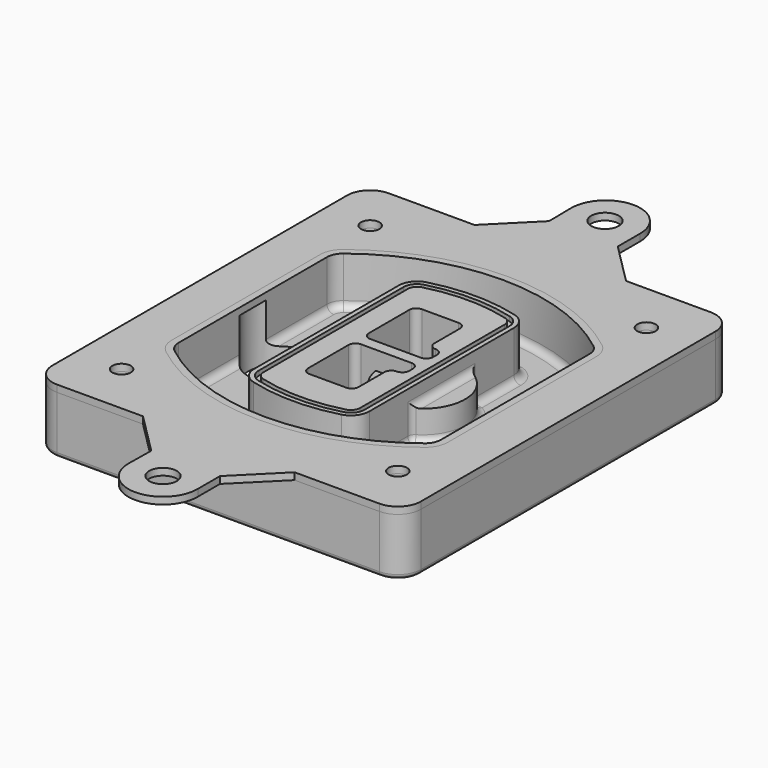
from build123d import *

# Parameters (mm, degrees)
F0_R      = 4
F1_DEPTH  = 25
F2_DEPTH  = 3
F3_DEPTH  = 18
F5_DEPTH  = 21
F6_DEPTH  = 2
F8_DEPTH  = 20
F9_DEPTH  = 16
F10_DEPTH = 25
F7_R      = 6
F7_R_2    = 4
F11_DEPTH = 6
F13_DEPTH = 9
F14_R     = 3
F15_R     = 2
F16_R     = 6
F16_R_2   = 4
F17_DEPTH = 3


with BuildPart() as f1:
    # F0 (on Top) → F1 (new body)
    with BuildSketch(Plane.XY):
        with BuildLine():
            ThreePointArc((-80, -80), (-77.0710678119, -87.0710678119), (-70, -90))
            Line((-70, -90), (70, -90))
            ThreePointArc((70, -90), (77.0710678119, -87.0710678119), (80, -80))
            Line((80, -80), (80, 80))
            ThreePointArc((80, 80), (77.0710678119, 87.0710678119), (70, 90))
            Line((70, 90), (-70, 90))
            ThreePointArc((-70, 90), (-77.0710678119, 87.0710678119), (-80, 80))
            Line((-80, 80), (-80, -80))
        make_face()
        with Locations((-60, -67.5)):
            Circle(F0_R, mode=Mode.SUBTRACT)
        with Locations((60, -67.5)):
            Circle(F0_R, mode=Mode.SUBTRACT)
        with Locations((-60, 67.5)):
            Circle(F0_R, mode=Mode.SUBTRACT)
        with BuildLine():
            ThreePointArc((-64, 40.2934422872), (-62.5820384798, 46.4328484224), (-58.6153846154, 51.3286200352))
            ThreePointArc((-58.6153846154, 51.3286200352), (0, 71.5), (58.6153846154, 51.3286200352))
            ThreePointArc((58.6153846154, 51.3286200352), (62.5820384798, 46.4328484224), (64, 40.2934422872))
            Line((64, 40.2934422872), (64, -40.2934422872))
            ThreePointArc((64, -40.2934422872), (62.5820384798, -46.4328484224), (58.6153846154, -51.3286200352))
            ThreePointArc((58.6153846154, -51.3286200352), (0, -71.5), (-58.6153846154, -51.3286200352))
            ThreePointArc((-58.6153846154, -51.3286200352), (-62.5820384798, -46.4328484224), (-64, -40.2934422872))
            Line((-64, -40.2934422872), (-64, 40.2934422872))
        make_face(mode=Mode.SUBTRACT)
        with Locations((60, 67.5)):
            Circle(F0_R, mode=Mode.SUBTRACT)
        with BuildLine():
            ThreePointArc((58.6153846154, 51.3286200352), (0, 71.5), (-58.6153846154, 51.3286200352))
            ThreePointArc((-58.6153846154, 51.3286200352), (-62.5820384798, 46.4328484224), (-64, 40.2934422872))
            Line((-64, 40.2934422872), (-64, -40.2934422872))
            ThreePointArc((-64, -40.2934422872), (-62.5820384798, -46.4328484224), (-58.6153846154, -51.3286200352))
            ThreePointArc((-58.6153846154, -51.3286200352), (0, -71.5), (58.6153846154, -51.3286200352))
            ThreePointArc((58.6153846154, -51.3286200352), (62.5820384798, -46.4328484224), (64, -40.2934422872))
            Line((64, -40.2934422872), (64, 40.2934422872))
            ThreePointArc((64, 40.2934422872), (62.5820384798, 46.4328484224), (58.6153846154, 51.3286200352))
        make_face()
        with BuildLine():
            Line((-60, -40.2934422872), (-60, 40.2934422872))
            ThreePointArc((-60, 40.2934422872), (-58.9871703427, 44.6787323838), (-56.1538461538, 48.1757121072))
            ThreePointArc((-56.1538461538, 48.1757121072), (0, 67.5), (56.1538461538, 48.1757121072))
            ThreePointArc((56.1538461538, 48.1757121072), (58.9871703427, 44.6787323838), (60, 40.2934422872))
            Line((60, 40.2934422872), (60, -40.2934422872))
            ThreePointArc((60, -40.2934422872), (58.9871703427, -44.6787323838), (56.1538461538, -48.1757121072))
            ThreePointArc((56.1538461538, -48.1757121072), (0, -67.5), (-56.1538461538, -48.1757121072))
            ThreePointArc((-56.1538461538, -48.1757121072), (-58.9871703427, -44.6787323838), (-60, -40.2934422872))
        make_face(mode=Mode.SUBTRACT)
        with BuildLine():
            ThreePointArc((-56.1538461538, 48.1757121072), (-58.9871703427, 44.6787323838), (-60, 40.2934422872))
            Line((-60, 40.2934422872), (-60, -40.2934422872))
            ThreePointArc((-60, -40.2934422872), (-58.9871703427, -44.6787323838), (-56.1538461538, -48.1757121072))
            ThreePointArc((-56.1538461538, -48.1757121072), (0, -67.5), (56.1538461538, -48.1757121072))
            ThreePointArc((56.1538461538, -48.1757121072), (58.9871703427, -44.6787323838), (60, -40.2934422872))
            Line((60, -40.2934422872), (60, 40.2934422872))
            ThreePointArc((60, 40.2934422872), (58.9871703427, 44.6787323838), (56.1538461538, 48.1757121072))
            ThreePointArc((56.1538461538, 48.1757121072), (0, 67.5), (-56.1538461538, 48.1757121072))
        make_face()
        with BuildLine():
            ThreePointArc((54.3076923077, 45.8110311612), (56.2910192399, 43.3631453548), (57, 40.2934422872))
            Line((57, 40.2934422872), (57, -40.2934422872))
            ThreePointArc((57, -40.2934422872), (56.2910192399, -43.3631453548), (54.3076923077, -45.8110311612))
            ThreePointArc((54.3076923077, -45.8110311612), (0, -64.5), (-54.3076923077, -45.8110311612))
            ThreePointArc((-54.3076923077, -45.8110311612), (-56.2910192399, -43.3631453548), (-57, -40.2934422872))
            Line((-57, -40.2934422872), (-57, 40.2934422872))
            ThreePointArc((-57, 40.2934422872), (-56.2910192399, 43.3631453548), (-54.3076923077, 45.8110311612))
            ThreePointArc((-54.3076923077, 45.8110311612), (0, 64.5), (54.3076923077, 45.8110311612))
        make_face(mode=Mode.SUBTRACT)
        with BuildLine():
            Line((57, -40.2934422872), (57, 40.2934422872))
            ThreePointArc((57, 40.2934422872), (56.2910192399, 43.3631453548), (54.3076923077, 45.8110311612))
            ThreePointArc((54.3076923077, 45.8110311612), (0, 64.5), (-54.3076923077, 45.8110311612))
            ThreePointArc((-54.3076923077, 45.8110311612), (-56.2910192399, 43.3631453548), (-57, 40.2934422872))
            Line((-57, 40.2934422872), (-57, -40.2934422872))
            ThreePointArc((-57, -40.2934422872), (-56.2910192399, -43.3631453548), (-54.3076923077, -45.8110311612))
            ThreePointArc((-54.3076923077, -45.8110311612), (0, -64.5), (54.3076923077, -45.8110311612))
            ThreePointArc((54.3076923077, -45.8110311612), (56.2910192399, -43.3631453548), (57, -40.2934422872))
        make_face()
    extrude(amount=-F1_DEPTH)

    # F0 (on Top) → F2 (join)
    with BuildSketch(Plane.XY):
        with BuildLine():
            ThreePointArc((-56.1538461538, 48.1757121072), (-58.9871703427, 44.6787323838), (-60, 40.2934422872))
            Line((-60, 40.2934422872), (-60, -40.2934422872))
            ThreePointArc((-60, -40.2934422872), (-58.9871703427, -44.6787323838), (-56.1538461538, -48.1757121072))
            ThreePointArc((-56.1538461538, -48.1757121072), (0, -67.5), (56.1538461538, -48.1757121072))
            ThreePointArc((56.1538461538, -48.1757121072), (58.9871703427, -44.6787323838), (60, -40.2934422872))
            Line((60, -40.2934422872), (60, 40.2934422872))
            ThreePointArc((60, 40.2934422872), (58.9871703427, 44.6787323838), (56.1538461538, 48.1757121072))
            ThreePointArc((56.1538461538, 48.1757121072), (0, 67.5), (-56.1538461538, 48.1757121072))
        make_face()
        with BuildLine():
            ThreePointArc((54.3076923077, 45.8110311612), (56.2910192399, 43.3631453548), (57, 40.2934422872))
            Line((57, 40.2934422872), (57, -40.2934422872))
            ThreePointArc((57, -40.2934422872), (56.2910192399, -43.3631453548), (54.3076923077, -45.8110311612))
            ThreePointArc((54.3076923077, -45.8110311612), (0, -64.5), (-54.3076923077, -45.8110311612))
            ThreePointArc((-54.3076923077, -45.8110311612), (-56.2910192399, -43.3631453548), (-57, -40.2934422872))
            Line((-57, -40.2934422872), (-57, 40.2934422872))
            ThreePointArc((-57, 40.2934422872), (-56.2910192399, 43.3631453548), (-54.3076923077, 45.8110311612))
            ThreePointArc((-54.3076923077, 45.8110311612), (0, 64.5), (54.3076923077, 45.8110311612))
        make_face(mode=Mode.SUBTRACT)
    extrude(amount=F2_DEPTH)

    # F0 (on Top) → F3 (cut)
    with BuildSketch(Plane.XY):
        with BuildLine():
            Line((57, -40.2934422872), (57, 40.2934422872))
            ThreePointArc((57, 40.2934422872), (56.2910192399, 43.3631453548), (54.3076923077, 45.8110311612))
            ThreePointArc((54.3076923077, 45.8110311612), (0, 64.5), (-54.3076923077, 45.8110311612))
            ThreePointArc((-54.3076923077, 45.8110311612), (-56.2910192399, 43.3631453548), (-57, 40.2934422872))
            Line((-57, 40.2934422872), (-57, -40.2934422872))
            ThreePointArc((-57, -40.2934422872), (-56.2910192399, -43.3631453548), (-54.3076923077, -45.8110311612))
            ThreePointArc((-54.3076923077, -45.8110311612), (0, -64.5), (54.3076923077, -45.8110311612))
            ThreePointArc((54.3076923077, -45.8110311612), (56.2910192399, -43.3631453548), (57, -40.2934422872))
        make_face()
    extrude(amount=-F3_DEPTH, mode=Mode.SUBTRACT)

    # F4 (on face) → F5 (join, through all)
    with BuildSketch(Plane.XY.offset(3)):
        with BuildLine():
            ThreePointArc((-25, -39.2465276821), (-23.3511545998, -44.1109737193), (-19.0842911877, -46.9702398883))
            ThreePointArc((-19.0842911877, -46.9702398883), (0, -49.5), (19.0842911877, -46.9702398883))
            ThreePointArc((19.0842911877, -46.9702398883), (23.3511545998, -44.1109737193), (25, -39.2465276821))
            Line((25, -39.2465276821), (25, 39.2465276821))
            ThreePointArc((25, 39.2465276821), (23.3511545998, 44.1109737193), (19.0842911877, 46.9702398883))
            ThreePointArc((19.0842911877, 46.9702398883), (0, 49.5), (-19.0842911877, 46.9702398883))
            ThreePointArc((-19.0842911877, 46.9702398883), (-23.3511545998, 44.1109737193), (-25, 39.2465276821))
            Line((-25, 39.2465276821), (-25, -39.2465276821))
        make_face()
        with BuildLine():
            ThreePointArc((18.5632183908, 45.0393118368), (21.7633659499, 42.89486221), (23, 39.2465276821))
            Line((23, 39.2465276821), (23, -39.2465276821))
            ThreePointArc((23, -39.2465276821), (21.7633659499, -42.89486221), (18.5632183908, -45.0393118368))
            ThreePointArc((18.5632183908, -45.0393118368), (0, -47.5), (-18.5632183908, -45.0393118368))
            ThreePointArc((-18.5632183908, -45.0393118368), (-21.7633659499, -42.89486221), (-23, -39.2465276821))
            Line((-23, -39.2465276821), (-23, 39.2465276821))
            ThreePointArc((-23, 39.2465276821), (-21.7633659499, 42.89486221), (-18.5632183908, 45.0393118368))
            ThreePointArc((-18.5632183908, 45.0393118368), (0, 47.5), (18.5632183908, 45.0393118368))
        make_face(mode=Mode.SUBTRACT)
        with BuildLine():
            Line((23, -39.2465276821), (23, 39.2465276821))
            ThreePointArc((23, 39.2465276821), (21.7633659499, 42.89486221), (18.5632183908, 45.0393118368))
            ThreePointArc((18.5632183908, 45.0393118368), (0, 47.5), (-18.5632183908, 45.0393118368))
            ThreePointArc((-18.5632183908, 45.0393118368), (-21.7633659499, 42.89486221), (-23, 39.2465276821))
            Line((-23, 39.2465276821), (-23, -39.2465276821))
            ThreePointArc((-23, -39.2465276821), (-21.7633659499, -42.89486221), (-18.5632183908, -45.0393118368))
            ThreePointArc((-18.5632183908, -45.0393118368), (0, -47.5), (18.5632183908, -45.0393118368))
            ThreePointArc((18.5632183908, -45.0393118368), (21.7633659499, -42.89486221), (23, -39.2465276821))
        make_face()
        with BuildLine():
            ThreePointArc((18.0421455939, 43.1083837852), (20.1755772999, 41.6787507007), (21, 39.2465276821))
            Line((21, 39.2465276821), (21, -39.2465276821))
            ThreePointArc((21, -39.2465276821), (20.1755772999, -41.6787507007), (18.0421455939, -43.1083837852))
            ThreePointArc((18.0421455939, -43.1083837852), (0, -45.5), (-18.0421455939, -43.1083837852))
            ThreePointArc((-18.0421455939, -43.1083837852), (-20.1755772999, -41.6787507007), (-21, -39.2465276821))
            Line((-21, -39.2465276821), (-21, 39.2465276821))
            ThreePointArc((-21, 39.2465276821), (-20.1755772999, 41.6787507007), (-18.0421455939, 43.1083837852))
            ThreePointArc((-18.0421455939, 43.1083837852), (0, 45.5), (18.0421455939, 43.1083837852))
        make_face(mode=Mode.SUBTRACT)
        with BuildLine():
            Line((21, -39.2465276821), (21, 39.2465276821))
            ThreePointArc((21, 39.2465276821), (20.1755772999, 41.6787507007), (18.0421455939, 43.1083837852))
            ThreePointArc((18.0421455939, 43.1083837852), (0, 45.5), (-18.0421455939, 43.1083837852))
            ThreePointArc((-18.0421455939, 43.1083837852), (-20.1755772999, 41.6787507007), (-21, 39.2465276821))
            Line((-21, 39.2465276821), (-21, -39.2465276821))
            ThreePointArc((-21, -39.2465276821), (-20.1755772999, -41.6787507007), (-18.0421455939, -43.1083837852))
            ThreePointArc((-18.0421455939, -43.1083837852), (0, -45.5), (18.0421455939, -43.1083837852))
            ThreePointArc((18.0421455939, -43.1083837852), (20.1755772999, -41.6787507007), (21, -39.2465276821))
        make_face()
        with BuildLine():
            Line((-8, -2.5), (14, -2.5))
            ThreePointArc((14, -2.5), (16.1213203436, -3.3786796564), (17, -5.5))
            Line((17, -5.5), (17, -7.5))
            ThreePointArc((17, -7.5), (16.1213203436, -9.6213203436), (14, -10.5))
            ThreePointArc((14, -10.5), (11.8786796564, -11.3786796564), (11, -13.5))
            Line((11, -13.5), (11, -27.5))
            ThreePointArc((11, -27.5), (10.1213203436, -29.6213203436), (8, -30.5))
            Line((8, -30.5), (-8, -30.5))
            ThreePointArc((-8, -30.5), (-10.1213203436, -29.6213203436), (-11, -27.5))
            Line((-11, -27.5), (-11, -5.5))
            ThreePointArc((-11, -5.5), (-10.1213203436, -3.3786796564), (-8, -2.5))
        make_face(mode=Mode.SUBTRACT)
        with BuildLine():
            ThreePointArc((-8, 2.5), (-10.1213203436, 3.3786796564), (-11, 5.5))
            Line((-11, 5.5), (-11, 27.5))
            ThreePointArc((-11, 27.5), (-10.1213203436, 29.6213203436), (-8, 30.5))
            Line((-8, 30.5), (8, 30.5))
            ThreePointArc((8, 30.5), (10.1213203436, 29.6213203436), (11, 27.5))
            Line((11, 27.5), (11, 13.5))
            ThreePointArc((11, 13.5), (11.8786796564, 11.3786796564), (14, 10.5))
            ThreePointArc((14, 10.5), (16.1213203436, 9.6213203436), (17, 7.5))
            Line((17, 7.5), (17, 5.5))
            ThreePointArc((17, 5.5), (16.1213203436, 3.3786796564), (14, 2.5))
            Line((14, 2.5), (-8, 2.5))
        make_face(mode=Mode.SUBTRACT)
    extrude(amount=-F5_DEPTH)

    # F4 (on face) → F6 (cut)
    with BuildSketch(Plane.XY.offset(3)):
        with BuildLine():
            Line((23, -39.2465276821), (23, 39.2465276821))
            ThreePointArc((23, 39.2465276821), (21.7633659499, 42.89486221), (18.5632183908, 45.0393118368))
            ThreePointArc((18.5632183908, 45.0393118368), (0, 47.5), (-18.5632183908, 45.0393118368))
            ThreePointArc((-18.5632183908, 45.0393118368), (-21.7633659499, 42.89486221), (-23, 39.2465276821))
            Line((-23, 39.2465276821), (-23, -39.2465276821))
            ThreePointArc((-23, -39.2465276821), (-21.7633659499, -42.89486221), (-18.5632183908, -45.0393118368))
            ThreePointArc((-18.5632183908, -45.0393118368), (0, -47.5), (18.5632183908, -45.0393118368))
            ThreePointArc((18.5632183908, -45.0393118368), (21.7633659499, -42.89486221), (23, -39.2465276821))
        make_face()
        with BuildLine():
            ThreePointArc((18.0421455939, 43.1083837852), (20.1755772999, 41.6787507007), (21, 39.2465276821))
            Line((21, 39.2465276821), (21, -39.2465276821))
            ThreePointArc((21, -39.2465276821), (20.1755772999, -41.6787507007), (18.0421455939, -43.1083837852))
            ThreePointArc((18.0421455939, -43.1083837852), (0, -45.5), (-18.0421455939, -43.1083837852))
            ThreePointArc((-18.0421455939, -43.1083837852), (-20.1755772999, -41.6787507007), (-21, -39.2465276821))
            Line((-21, -39.2465276821), (-21, 39.2465276821))
            ThreePointArc((-21, 39.2465276821), (-20.1755772999, 41.6787507007), (-18.0421455939, 43.1083837852))
            ThreePointArc((-18.0421455939, 43.1083837852), (0, 45.5), (18.0421455939, 43.1083837852))
        make_face(mode=Mode.SUBTRACT)
    extrude(amount=-F6_DEPTH, mode=Mode.SUBTRACT)

    # F7 (on face) → F8 (join)
    with BuildSketch(Plane(origin=(0, 0, -25), x_dir=(1, 0, 0), z_dir=(0, 0, -1))):
        with BuildLine():
            ThreePointArc((3.28842436, 0), (16.7567035675, 13.4682792075), (30.224982775, 0))
            Line((30.224982775, 0), (35.224982775, 0))
            ThreePointArc((35.224982775, 0), (16.7567035675, 18.4682792075), (-1.71157564, 0))
            Line((-1.71157564, 0), (3.28842436, 0))
        make_face()
        with BuildLine():
            Line((3.28842436, 0), (30.224982775, 0))
            ThreePointArc((30.224982775, 0), (16.7567035675, 13.4682792075), (3.28842436, 0))
        make_face()
        with BuildLine():
            ThreePointArc((3.28842436, 0), (16.7567035675, -13.4682792075), (30.224982775, 0))
            Line((30.224982775, 0), (3.28842436, 0))
        make_face()
        with BuildLine():
            Line((35.224982775, 0), (30.224982775, 0))
            ThreePointArc((30.224982775, 0), (16.7567035675, -13.4682792075), (3.28842436, 0))
            Line((3.28842436, 0), (-1.71157564, 0))
            ThreePointArc((-1.71157564, 0), (16.7567035675, -18.4682792075), (35.224982775, 0))
        make_face()
    extrude(amount=-F8_DEPTH)

    # F7 (on face) → F9 (cut)
    with BuildSketch(Plane(origin=(0, 0, -25), x_dir=(1, 0, 0), z_dir=(0, 0, -1))):
        with BuildLine():
            Line((3.28842436, 0), (30.224982775, 0))
            ThreePointArc((30.224982775, 0), (16.7567035675, 13.4682792075), (3.28842436, 0))
        make_face()
        with BuildLine():
            ThreePointArc((3.28842436, 0), (16.7567035675, -13.4682792075), (30.224982775, 0))
            Line((30.224982775, 0), (3.28842436, 0))
        make_face()
    extrude(amount=-F9_DEPTH, mode=Mode.SUBTRACT)

    # F7 (on face) → F10 (cut)
    with BuildSketch(Plane(origin=(0, 0, -25), x_dir=(1, 0, 0), z_dir=(0, 0, -1))):
        with BuildLine():
            Line((-59.0318229325, 0), (-32.0952645175, 0))
            ThreePointArc((-32.0952645175, 0), (-45.563543725, 13.4682792075), (-59.0318229325, 0))
        make_face()
        with BuildLine():
            ThreePointArc((-59.0318229325, 0), (-45.563543725, -13.4682792075), (-32.0952645175, 0))
            Line((-32.0952645175, 0), (-59.0318229325, 0))
        make_face()
    extrude(amount=-F10_DEPTH, mode=Mode.SUBTRACT)

    # F7 (on face) → F11 (cut)
    with BuildSketch(Plane(origin=(0, 0, -25), x_dir=(1, 0, 0), z_dir=(0, 0, -1))):
        with Locations((60, -67.5)):
            Circle(F7_R)
        with Locations((60, -67.5)):
            Circle(F7_R_2, mode=Mode.SUBTRACT)
        with Locations((60, -67.5)):
            Circle(F7_R)
        with Locations((60, -67.5)):
            Circle(F7_R_2, mode=Mode.SUBTRACT)
        with Locations((-60, -67.5)):
            Circle(F7_R)
        with Locations((-60, -67.5)):
            Circle(F7_R_2, mode=Mode.SUBTRACT)
        with Locations((-60, -67.5)):
            Circle(F7_R)
        with Locations((-60, -67.5)):
            Circle(F7_R_2, mode=Mode.SUBTRACT)
        with Locations((-60, 67.5)):
            Circle(F7_R)
        with Locations((-60, 67.5)):
            Circle(F7_R_2, mode=Mode.SUBTRACT)
        with Locations((-60, 67.5)):
            Circle(F7_R)
        with Locations((-60, 67.5)):
            Circle(F7_R_2, mode=Mode.SUBTRACT)
        with Locations((60, 67.5)):
            Circle(F7_R)
        with Locations((60, 67.5)):
            Circle(F7_R_2, mode=Mode.SUBTRACT)
        with Locations((60, 67.5)):
            Circle(F7_R)
        with Locations((60, 67.5)):
            Circle(F7_R_2, mode=Mode.SUBTRACT)
    extrude(amount=-F11_DEPTH, mode=Mode.SUBTRACT)

    # F12 (on face) → F13 (cut, through all)
    with BuildSketch(Plane(origin=(0, 0, -9), x_dir=(1, 0, 0), z_dir=(0, 0, -1))):
        with BuildLine():
            Line((11, 13.5), (11, 17.5481537753))
            ThreePointArc((11, 17.5481537753), (2.5696536419, 11.8239143813), (-1.5415842455, 2.5))
            Line((-1.5415842455, 2.5), (3.5224848595, 2.5))
            ThreePointArc((3.5224848595, 2.5), (6.1857188154, 8.3455872281), (11.2536447004, 12.2927168648))
            ThreePointArc((11.2536447004, 12.2927168648), (11.0640958889, 12.8831798879), (11, 13.5))
        make_face()
        with BuildLine():
            ThreePointArc((11.2536447004, -12.2927168648), (6.1857188154, -8.3455872281), (3.5224848595, -2.5))
            Line((3.5224848595, -2.5), (-1.5415842455, -2.5))
            ThreePointArc((-1.5415842455, -2.5), (2.5696536419, -11.8239143813), (11, -17.5481537753))
            Line((11, -17.5481537753), (11, -13.5))
            ThreePointArc((11, -13.5), (11.0640958889, -12.8831798879), (11.2536447004, -12.2927168648))
        make_face()
        with BuildLine():
            ThreePointArc((11.2536447004, 12.2927168648), (6.1857188154, 8.3455872281), (3.5224848595, 2.5))
            Line((3.5224848595, 2.5), (14, 2.5))
            ThreePointArc((14, 2.5), (16.1213203436, 3.3786796564), (17, 5.5))
            Line((17, 5.5), (17, 7.5))
            ThreePointArc((17, 7.5), (16.1213203436, 9.6213203436), (14, 10.5))
            ThreePointArc((14, 10.5), (12.3601599782, 10.9878446101), (11.2536447004, 12.2927168648))
        make_face()
        with BuildLine():
            Line((14, -2.5), (3.5224848595, -2.5))
            ThreePointArc((3.5224848595, -2.5), (6.1857188154, -8.3455872281), (11.2536447004, -12.2927168648))
            ThreePointArc((11.2536447004, -12.2927168648), (12.3601599782, -10.9878446101), (14, -10.5))
            ThreePointArc((14, -10.5), (16.1213203436, -9.6213203436), (17, -7.5))
            Line((17, -7.5), (17, -5.5))
            ThreePointArc((17, -5.5), (16.1213203436, -3.3786796564), (14, -2.5))
        make_face()
    extrude(amount=F13_DEPTH, mode=Mode.SUBTRACT)

    # F14
    f14_edges = [f1.edges().sort_by_distance(p)[0] for p in [
        (-57, -23.703476, -18),
        (-57, 23.703476, -18),
        (25, 0, -5),
        (25, 16.526506, -11.5),
        (25, -16.526506, -11.5),
        (25, -27.886517, -18),
        (35.224983, 0, -18),
    ]]
    fillet(f14_edges, radius=F14_R)

    # F15
    f15_edges = [f1.edges().sort_by_distance(p)[0] for p in [
        (0, -90, -25),
    ]]
    fillet(f15_edges, radius=F15_R)


with BuildPart() as f17:
    # F16 (on face) → F17 (new body, through all)
    with BuildSketch(Plane.XY):
        with BuildLine():
            Line((15.1404465723, 108), (15.1404465723, 120))
            ThreePointArc((15.1404465723, 120), (0.1418784991, 135.2072577002), (-14.856689574, 120))
            Line((-14.856689574, 120), (-14.6908834138, 108.0011455415))
            Line((-14.6908834138, 108.0011455415), (-32.6920289553, 90))
            Line((-32.6920289553, 90), (33.1404465723, 90))
            Line((33.1404465723, 90), (15.1404465723, 108))
        make_face()
        with Locations((0, 120)):
            Circle(F16_R, mode=Mode.SUBTRACT)
        with BuildLine():
            Line((70, 90), (33.1404465723, 90))
            Line((33.1404465723, 90), (-32.6920289553, 90))
            Line((-32.6920289553, 90), (-70, 90))
            ThreePointArc((-70, 90), (-77.0710678119, 87.0710678119), (-80, 80))
            Line((-80, 80), (-80, -80))
            ThreePointArc((-80, -80), (-77.0710678119, -87.0710678119), (-70, -90))
            Line((-70, -90), (-32.6920289553, -90))
            Line((-32.6920289553, -90), (33.1404465723, -90))
            Line((33.1404465723, -90), (70, -90))
            ThreePointArc((70, -90), (77.0710678119, -87.0710678119), (80, -80))
            Line((80, -80), (80, 80))
            ThreePointArc((80, 80), (77.0710678119, 87.0710678119), (70, 90))
        make_face()
        with Locations((-60, -67.5)):
            Circle(F16_R_2, mode=Mode.SUBTRACT)
        with Locations((60, -67.5)):
            Circle(F16_R_2, mode=Mode.SUBTRACT)
        with Locations((-60, 67.5)):
            Circle(F16_R_2, mode=Mode.SUBTRACT)
        with BuildLine():
            ThreePointArc((-60, 40.2934422872), (-58.9871703427, 44.6787323838), (-56.1538461538, 48.1757121072))
            ThreePointArc((-56.1538461538, 48.1757121072), (0, 67.5), (56.1538461538, 48.1757121072))
            ThreePointArc((56.1538461538, 48.1757121072), (58.9871703427, 44.6787323838), (60, 40.2934422872))
            Line((60, 40.2934422872), (60, -40.2934422872))
            ThreePointArc((60, -40.2934422872), (58.9871703427, -44.6787323838), (56.1538461538, -48.1757121072))
            ThreePointArc((56.1538461538, -48.1757121072), (0, -67.5), (-56.1538461538, -48.1757121072))
            ThreePointArc((-56.1538461538, -48.1757121072), (-58.9871703427, -44.6787323838), (-60, -40.2934422872))
            Line((-60, -40.2934422872), (-60, 40.2934422872))
        make_face(mode=Mode.SUBTRACT)
        with Locations((60, 67.5)):
            Circle(F16_R_2, mode=Mode.SUBTRACT)
        with BuildLine():
            Line((15.1404465723, -108), (33.1404465723, -90))
            Line((33.1404465723, -90), (-32.6920289553, -90))
            Line((-32.6920289553, -90), (-14.6908834138, -108.0011455415))
            Line((-14.6908834138, -108.0011455415), (-14.856689574, -120))
            ThreePointArc((-14.856689574, -120), (0.1418784991, -135.2072577002), (15.1404465723, -120))
            Line((15.1404465723, -120), (15.1404465723, -108))
        make_face()
        with Locations((0, -120)):
            Circle(F16_R, mode=Mode.SUBTRACT)
    extrude(amount=F17_DEPTH)


solid = Compound([f1.part, f17.part])
